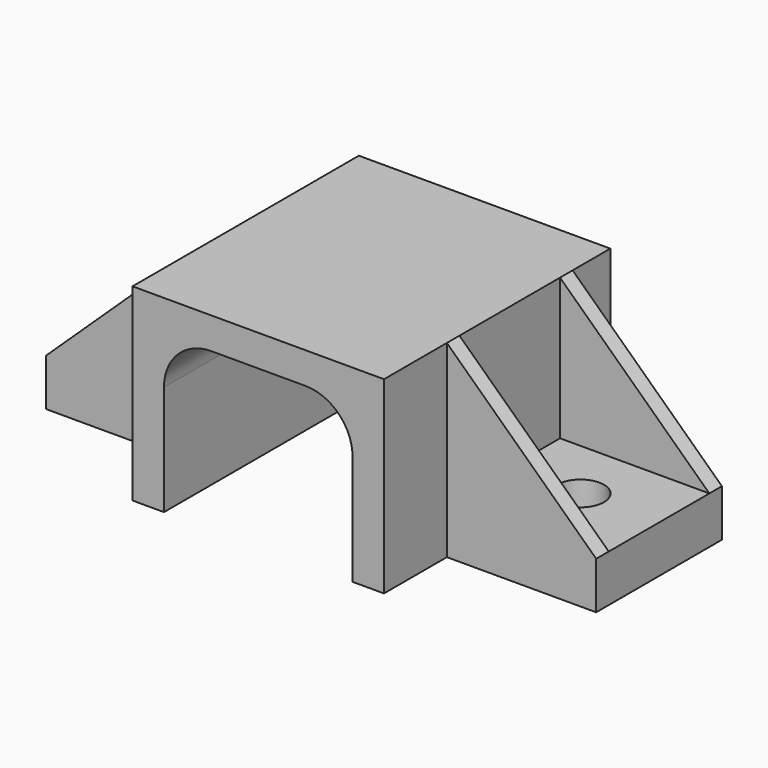
from build123d import *

# Parameters (mm, degrees)
F0_W      = 16
F0_H      = 3
F0_H_2    = 10
F0_W_2    = 9.5
F0_R      = 1.5
F0_H_3    = 5
F1_DEPTH  = 3
F3_DEPTH  = 9
F5_DEPTH  = 18.001
F7_DEPTH  = 1
F9_DEPTH  = 1
F11_DEPTH = 1
F13_DEPTH = 1
F14_W     = 3
F14_H     = 1
F14_H_2   = 9
F15_DEPTH = 10


with BuildPart() as f1:
    # F0 (on Top) → F1 (new body)
    with BuildSketch(Plane.XY):
        with Locations((-2.323942259, 4.8155895834)):
            Rectangle(F0_W, F0_H)
        with Locations((-2.323942259, -1.6844104166)):
            Rectangle(F0_W, F0_H_2)
        with Locations((-15.073942259, -1.6844104166)):
            Rectangle(F0_W_2, F0_H_2)
        with Locations((-14.823942259, -1.6844104166)):
            Circle(F0_R, mode=Mode.SUBTRACT)
        with Locations((-2.323942259, -9.1844104166)):
            Rectangle(F0_W, F0_H_3)
        with Locations((10.426057741, -1.6844104166)):
            Rectangle(F0_W_2, F0_H_2)
        with Locations((10.176057741, -1.6844104166)):
            Circle(F0_R, mode=Mode.SUBTRACT)
    extrude(amount=F1_DEPTH)

    # F2 (on face) → F3 (join)
    with BuildSketch(Plane.XY.offset(3)):
        Polygon((-10.323942259, -6.6844104166), (-10.323942259, -11.6844104166), (5.676057741, -11.6844104166), (5.676057741, -6.6844104166), (5.676057741, 3.3155895834), (5.676057741, 6.3155895834), (-10.323942259, 6.3155895834), (-10.323942259, 3.3155895834), align=None)
    extrude(amount=F3_DEPTH)

    # F4 (on face) → F5 (cut, through all)
    with BuildSketch(Plane.XZ.offset(11.6844104166)):
        with BuildLine():
            ThreePointArc((-5.323942259, 10), (-7.4452626025, 9.1213203436), (-8.323942259, 7))
            ThreePointArc((-8.323942259, 7), (-5.323942259, 4), (-2.323942259, 7))
            ThreePointArc((-2.323942259, 7), (-3.2026219154, 9.1213203436), (-5.323942259, 10))
        make_face()
        with BuildLine():
            Line((0.6760577337, 10), (-5.323942259, 10))
            ThreePointArc((-5.323942259, 10), (-3.2026219154, 9.1213203436), (-2.323942259, 7))
            ThreePointArc((-2.323942259, 7), (-1.4452626051, 9.121320341), (0.6760577337, 10))
        make_face()
        with BuildLine():
            ThreePointArc((-2.323942259, 7), (0.676057741, 4), (3.676057741, 7))
            ThreePointArc((3.676057741, 7), (2.797378082, 9.1213203461), (0.6760577337, 10))
            ThreePointArc((0.6760577337, 10), (-1.4452626051, 9.121320341), (-2.323942259, 7))
        make_face()
        with BuildLine():
            Line((-8.323942259, 7), (-8.323942259, 0))
            Line((-8.323942259, 0), (3.676057741, 0))
            Line((3.676057741, 0), (3.676057741, 7))
            ThreePointArc((3.676057741, 7), (0.676057741, 4), (-2.323942259, 7))
            ThreePointArc((-2.323942259, 7), (-5.323942259, 4), (-8.323942259, 7))
        make_face()
    extrude(amount=-F5_DEPTH, mode=Mode.SUBTRACT)

    # F6 (on face) → F7 (join)
    with BuildSketch(Plane.XZ.offset(6.6844104166)):
        Polygon((-10.323942259, 12), (-19.823942259, 3), (-10.323942259, 3), align=None)
    extrude(amount=-F7_DEPTH)

    # F8 (on face) → F9 (join)
    with BuildSketch(Plane(origin=(0, 3.3155895834, 0), x_dir=(-1, 0, 0), z_dir=(0, 1, 0))):
        Polygon((10.323942259, 3), (19.823942259, 3), (10.323942259, 12), align=None)
    extrude(amount=-F9_DEPTH)

    # F10 (on face) → F11 (join)
    with BuildSketch(Plane(origin=(0, 3.3155895834, 0), x_dir=(-1, 0, 0), z_dir=(0, 1, 0))):
        Polygon((-5.676057741, 12), (-15.176057741, 3), (-5.676057741, 3), align=None)
    extrude(amount=-F11_DEPTH)

    # F12 (on face) → F13 (join)
    with BuildSketch(Plane.XZ.offset(6.6844104166)):
        Polygon((5.676057741, 3), (15.176057741, 3), (5.676057741, 12), align=None)
    extrude(amount=-F13_DEPTH)

    # F14 (on face) → F15 (cut)
    with BuildSketch(Plane(origin=(0, 0, 0), x_dir=(1, 0, 0), z_dir=(0, 0, -1))):
        with Locations((-6.823942259, -0.8155895834)):
            Rectangle(F14_W, F14_H)
        with Locations((-6.823942259, -5.8155895834)):
            Rectangle(F14_W, F14_H)
        with Locations((2.176057741, -1.8155895834)):
            Rectangle(F14_W, F14_H_2)
        with Locations((-6.823942259, 2.1844104166)):
            Rectangle(F14_W, F14_H)
    extrude(amount=-F15_DEPTH, mode=Mode.SUBTRACT)


solid = f1.part
